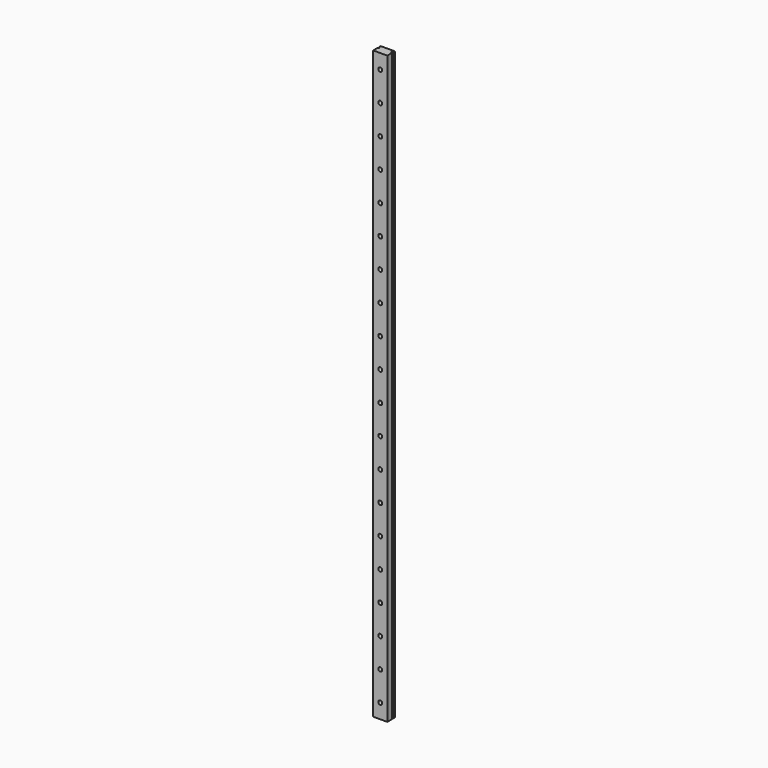
from build123d import *

# Parameters (mm, degrees)
PAD073_DEPTH        = 500
HOLE001_D           = 3.4
HOLE001_CBORE_D     = 6.1
HOLE001_CBORE_DEPTH = 4.5
LINEARPATTERN_COUNT = 20
LINEARPATTERN_PITCH = 25


with BuildPart() as part:
    # Sketch119 → Pad073 (new body)
    with BuildSketch(Plane.XY):
        Polygon((-6, 0), (-6, 5), (-5, 5), (-5, 6), (-6, 6), (-6, 8), (6, 8), (6, 6), (5, 6), (5, 5), (6, 5), (6, 0), align=None)
    extrude(amount=PAD073_DEPTH)

    # Hole001 (through all)
    with Locations(Plane(origin=(0, 8, 0), x_dir=(1, 0, 0), z_dir=(0, 1, 0))):
        with Locations((0, -12.5)):
            hole001 = CounterBoreHole(HOLE001_D / 2, HOLE001_CBORE_D / 2, HOLE001_CBORE_DEPTH)

    # LinearPattern: Hole001 ×20
    with Locations(*[(0, 0, i * LINEARPATTERN_PITCH) for i in range(1, LINEARPATTERN_COUNT)]):
        add(hole001, mode=Mode.SUBTRACT)


solid = part.part
